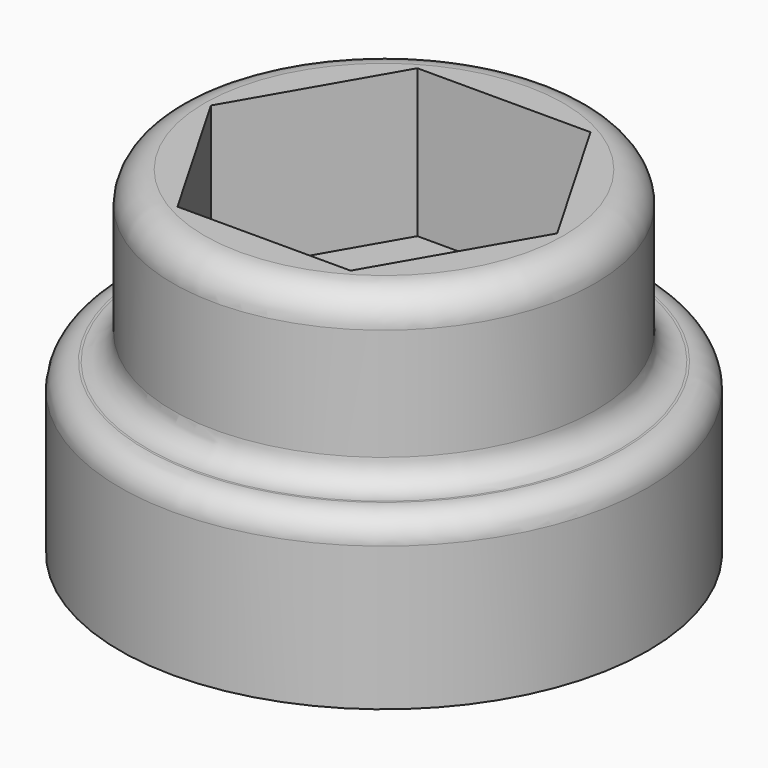
from build123d import *

# Parameters (mm, degrees)
SKETCH004_R     = 12.5
PAD002_DEPTH    = 8
SKETCH005_R     = 10
POCKET002_DEPTH = 3
SKETCH006_R     = 10
PAD003_DEPTH    = 8
SKETCH007_R     = 4.4
POCKET003_DEPTH = 16.001
POCKET004_DEPTH = 7
FILLET002_R     = 1.5
FILLET003_R     = 1.2


with BuildPart() as part:
    # Sketch004 → Pad002 (new body)
    with BuildSketch(Plane.XY.offset(6)):
        Circle(SKETCH004_R)
    extrude(amount=PAD002_DEPTH)

    # Sketch005 → Pocket002 (cut)
    with BuildSketch(Plane(origin=(0, 0, 6), x_dir=(1, 0, 0), z_dir=(0, 0, -1))):
        Circle(SKETCH005_R)
    extrude(amount=-POCKET002_DEPTH, mode=Mode.SUBTRACT)

    # Sketch006 → Pad003 (new body)
    with BuildSketch(Plane.XY.offset(14)):
        Circle(SKETCH006_R)
    extrude(amount=PAD003_DEPTH)

    # Sketch007 → Pocket003 (cut, through all)
    with BuildSketch(Plane.XY.offset(22)):
        Circle(SKETCH007_R)
    extrude(amount=-POCKET003_DEPTH, mode=Mode.SUBTRACT)

    # Sketch008 → Pocket004 (cut)
    with BuildSketch(Plane.XY.offset(22)):
        Polygon((4.099187, -7.1), (8.198374, 0), (4.099187, 7.1), (-4.099187, 7.1), (-8.198374, 0), (-4.099187, -7.1), align=None)
    extrude(amount=-POCKET004_DEPTH, mode=Mode.SUBTRACT)

    # Fillet002
    fillet002_edges = [part.edges().sort_by_distance(p)[0] for p in [
        (-10, 0, 22),
    ]]
    fillet(fillet002_edges, radius=FILLET002_R)

    # Fillet003
    fillet003_edges = [part.edges().sort_by_distance(p)[0] for p in [
        (-12.5, 0, 14),
        (-10, 0, 14),
    ]]
    fillet(fillet003_edges, radius=FILLET003_R)


solid = part.part
